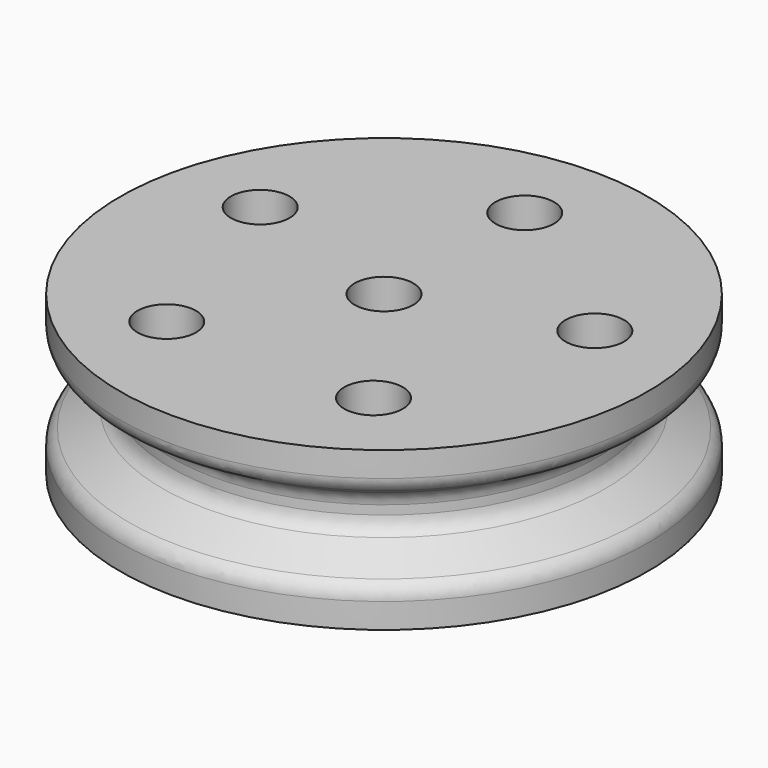
from build123d import *

# Parameters (mm, degrees)
F2_R     = 5
F3_DEPTH = 27
F4_R     = 3


with BuildPart() as f1:
    # F0 (on Right) → F1 (revolve)
    with BuildSketch(Plane.YZ):
        Polygon((-45, -11), (-5, -11), (-5, 16), (-45, 16), (-45, 10), (-36.339746, 5), (-36.339746, 0), (-45, -5), align=None)
    revolve(axis=Axis((0, 0, 0.272177), (0, 0, -1)))

    # F2 (on face) → F3 (cut, through all)
    with BuildSketch(Plane.XY.offset(16)):
        with Locations((0, 30)):
            Circle(F2_R)
        with Locations((-28.531695, 9.27051)):
            Circle(F2_R)
        with Locations((-17.633558, -24.27051)):
            Circle(F2_R)
        with Locations((17.633558, -24.27051)):
            Circle(F2_R)
        with Locations((28.531695, 9.27051)):
            Circle(F2_R)
    extrude(amount=-F3_DEPTH, mode=Mode.SUBTRACT)

    # F4
    f4_edges = [f1.edges().sort_by_distance(p)[0] for p in [
        (0, 36.339746, 0),
        (0, 36.339746, 5),
        (0, 45, -5),
        (0, 45, 10),
    ]]
    fillet(f4_edges, radius=F4_R)


solid = f1.part
